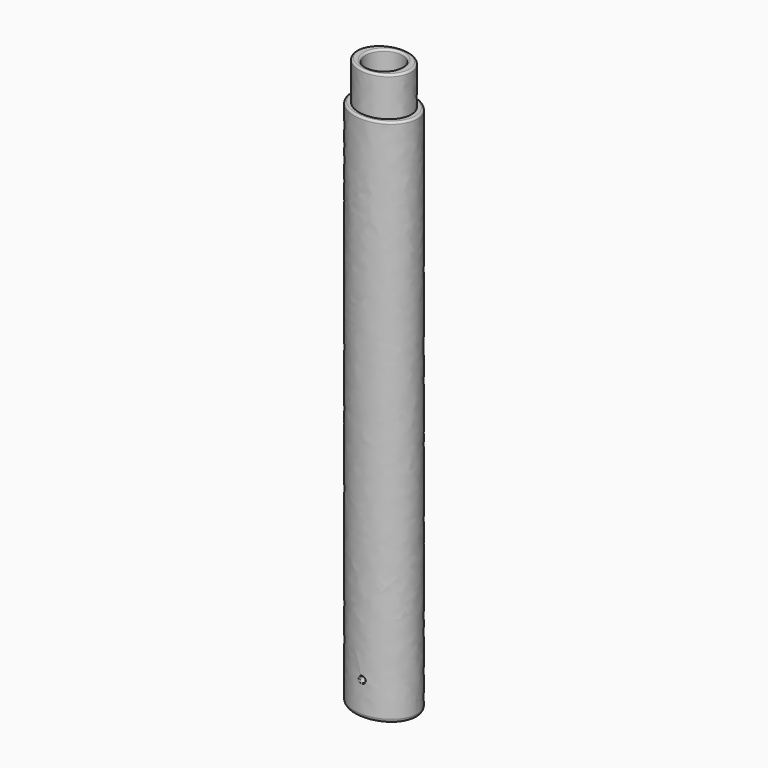
from build123d import *

# Parameters (mm, degrees)
F0_R     = 4.55
F1_DEPTH = 135
F3_DEPTH = 10
F4_R     = 4.68
F5_DEPTH = 143
F6_R     = 0.5
F7_R     = 1
F8_R     = 0.75
F9_DEPTH = 25
F10_R    = 0.2


with BuildPart() as f1:
    # F0 (on Top) → F1 (new body)
    with BuildSketch(Plane.XY):
        with BuildLine():
            add(Edge.make_bspline(
                [(-8.5, 0), (-8.5, -12.124356), (4.25, -6.062178), (17, 0), (4.25, 6.062178), (-8.5, 12.124356), (-8.5, 0)],
                knots=[0, 0, 0, 2.094395, 2.094395, 4.18879, 4.18879, 6.283185, 6.283185, 6.283185], degree=2, weights=[1, 0.5, 1, 0.5, 1, 0.5, 1]))
        make_face()
        Circle(F0_R, mode=Mode.SUBTRACT)
        Circle(F0_R)
    extrude(amount=F1_DEPTH)

    # F2 (on face) → F3 (join)
    with BuildSketch(Plane.XY.offset(135)):
        with BuildLine():
            add(Edge.make_bspline(
                [(-6.95, 0), (-6.95, -10.305702), (3.475, -5.152851), (13.9, 0), (3.475, 5.152851), (-6.95, 10.305702), (-6.95, 0)],
                knots=[0, 0, 0, 2.094395, 2.094395, 4.18879, 4.18879, 6.283185, 6.283185, 6.283185], degree=2, weights=[1, 0.5, 1, 0.5, 1, 0.5, 1]))
        make_face()
    extrude(amount=F3_DEPTH)

    # F4 (on face) → F5 (cut)
    with BuildSketch(Plane.XY.offset(145)):
        Circle(F4_R)
    extrude(amount=-F5_DEPTH, mode=Mode.SUBTRACT)

    # F6
    f6_edges = [f1.edges().sort_by_distance(p)[0] for p in [
        (-4.68, 0, 145),
        (6.95, 0, 145),
        (8.5, 0, 135),
    ]]
    fillet(f6_edges, radius=F6_R)

    # F7
    f7_edges = [f1.edges().sort_by_distance(p)[0] for p in [
        (8.5, 0, 0),
    ]]
    fillet(f7_edges, radius=F7_R)

    # F8 (on Front) → F9 (cut)
    with BuildSketch(Plane.XZ):
        with Locations((0, 8.741592)):
            Circle(F8_R)
    extrude(amount=F9_DEPTH, mode=Mode.SUBTRACT)

    # F10
    f10_edges = [f1.edges().sort_by_distance(p)[0] for p in [
        (8.499994, 0, 1),
        (-8.5, 0, 67.75),
        (8.499994, 0, 134.5),
        (-0.749998, -6.972697, 8.741592),
    ]]
    fillet(f10_edges, radius=F10_R)


solid = f1.part
